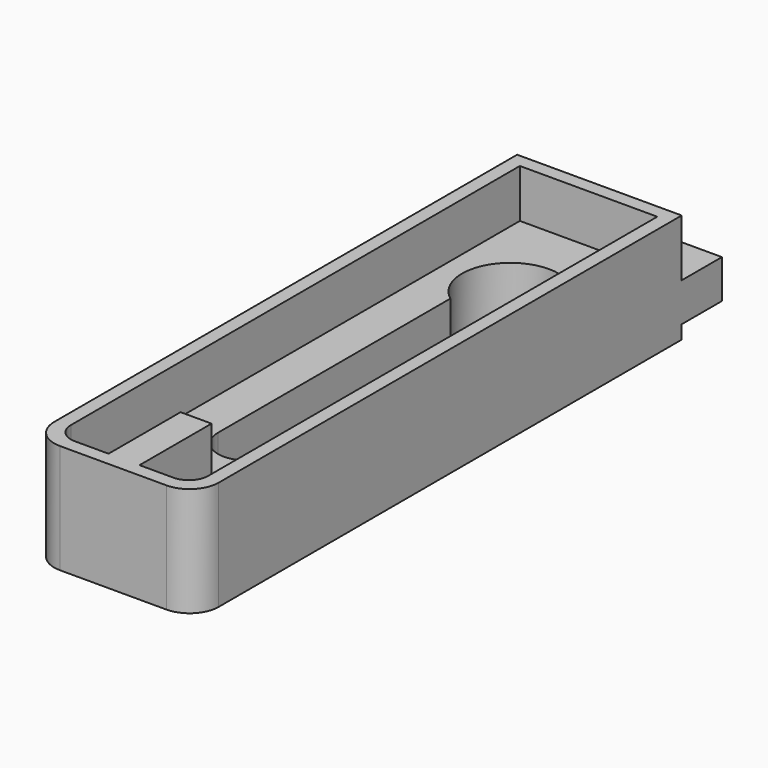
from build123d import *

# Parameters (mm, degrees)
F0_W      = 17
F0_H      = 68
F1_DEPTH  = 11.3
F2_R      = 3
F4_DEPTH  = 5
F6_DEPTH  = 25
F7_W      = 10.167095
F7_H      = 8.266306
F7_H_2    = 5.37331
F8_DEPTH  = 25
F9_R      = 5
F10_DEPTH = 25


with BuildPart() as f1:
    # F0 (on Top) → F1 (new body)
    with BuildSketch(Plane.XY):
        Rectangle(F0_W, F0_H)
    extrude(amount=F1_DEPTH)

    # F2
    f2_edges = [f1.edges().sort_by_distance(p)[0] for p in [
        (8.5, -34, 5.65),
        (-8.5, -34, 5.65),
    ]]
    fillet(f2_edges, radius=F2_R)

    # F3 (on face) → F4 (cut)
    with BuildSketch(Plane.XY.offset(11.3)):
        with BuildLine():
            ThreePointArc((-7.1, -30.6), (-6.514214, -32.014214), (-5.1, -32.6))
            Line((-5.1, -32.6), (-1.6, -32.6))
            Line((-1.6, -32.6), (-1.6, -23.3))
            Line((-1.6, -23.3), (1.6, -23.3))
            Line((1.6, -23.3), (1.6, -32.6))
            Line((1.6, -32.6), (5.1, -32.6))
            ThreePointArc((5.1, -32.6), (6.514214, -32.014214), (7.1, -30.6))
            Line((7.1, -30.6), (7.1, 27.4))
            Line((7.1, 27.4), (-7.1, 27.4))
            Line((-7.1, 27.4), (-7.1, -30.6))
        make_face()
    extrude(amount=-F4_DEPTH, mode=Mode.SUBTRACT)

    # F5 (on face) → F6 (cut)
    with BuildSketch(Plane.XY.offset(6.3)):
        with BuildLine():
            ThreePointArc((0, -19.7), (2.12132, -18.82132), (3, -16.7))
            Line((3, -16.7), (3, 17.3))
            ThreePointArc((3, 17.3), (2.12132, 19.42132), (0, 20.3))
            ThreePointArc((0, 20.3), (-2.12132, 19.42132), (-3, 17.3))
            Line((-3, 17.3), (-3, -16.7))
            ThreePointArc((-3, -16.7), (-2.12132, -18.82132), (0, -19.7))
        make_face()
    extrude(amount=-F6_DEPTH, mode=Mode.SUBTRACT)

    # F7 (on face) → F8 (cut)
    with BuildSketch(Plane.YZ.offset(8.5)):
        with Locations((33.883547, 9.533153)):
            Rectangle(F7_W, F7_H)
        with Locations((33.883547, -1.286655)):
            Rectangle(F7_W, F7_H_2)
    extrude(amount=-F8_DEPTH, mode=Mode.SUBTRACT)

    # F9 (on face) → F10 (cut)
    with BuildSketch(Plane.XY.offset(6.3)):
        with Locations((0, 17.3)):
            Circle(F9_R)
    extrude(amount=-F10_DEPTH, mode=Mode.SUBTRACT)


solid = f1.part
